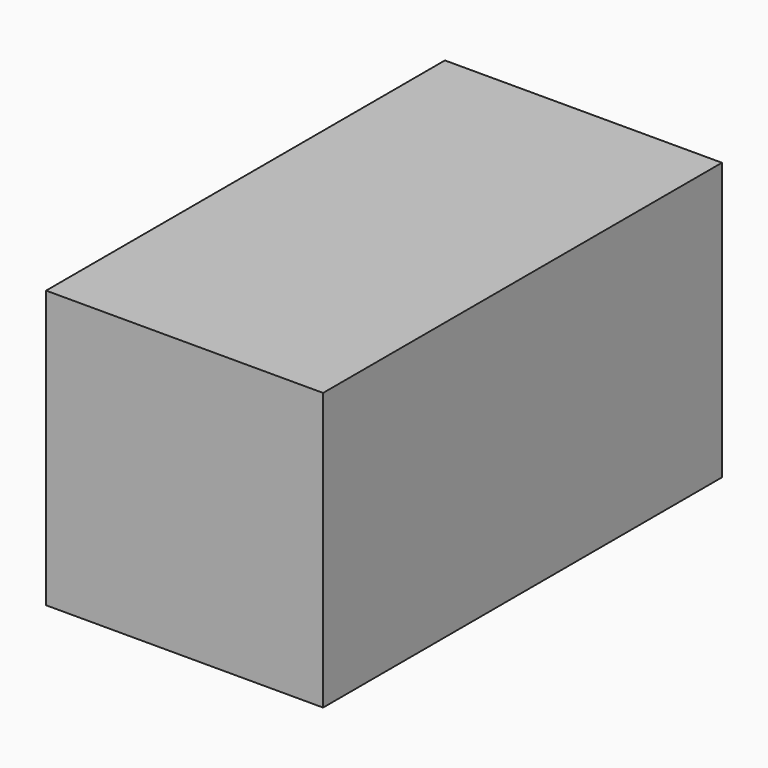
from build123d import *

# Parameters (mm, degrees)
F1_DEPTH = 101.5
F2_R     = 4
F3_DEPTH = 21.2


with BuildPart() as f1:
    # F0 (on Front) → F1 (new body)
    with BuildSketch(Plane.XZ):
        Polygon((-28.2, 28.2), (-28.2, 0), (-28.2, -28.2), (0, -28.2), (28.2, -28.2), (28.2, 0), (28.2, 28.2), (0, 28.2), align=None)
    extrude(amount=F1_DEPTH)

    # F2 (on face) → F3 (join)
    with BuildSketch(Plane(origin=(0, 0, 0), x_dir=(-1, 0, 0), z_dir=(0, 1, 0))):
        Circle(F2_R)
    extrude(amount=F3_DEPTH)


solid = f1.part
